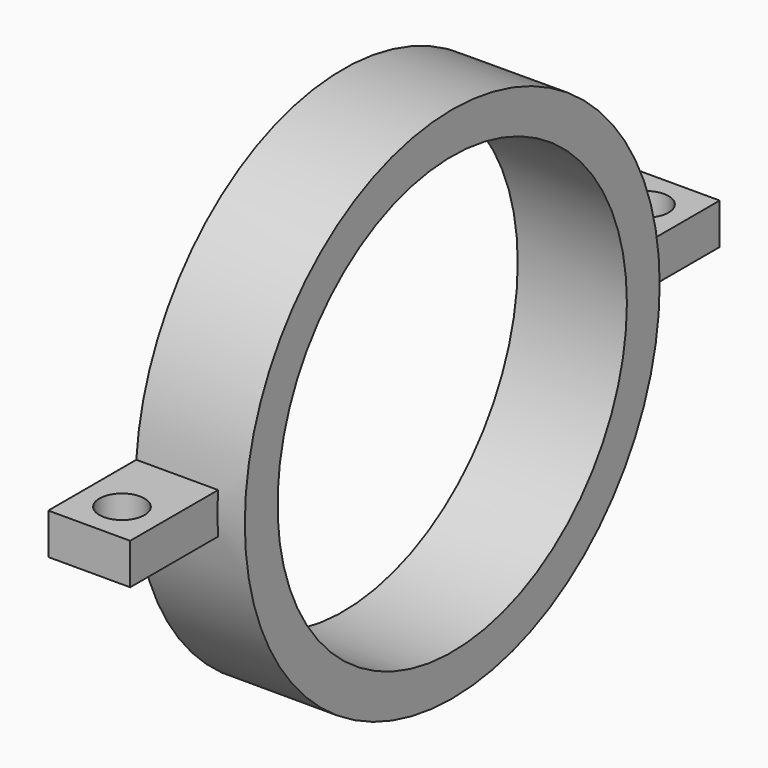
from build123d import *

# Parameters (mm, degrees)
F0_R     = 19
F0_R_2   = 16
F1_DEPTH = 4
F2_W     = 6
F2_H     = 3
F3_DEPTH = 27
F5_DEPTH = 4
F6_D     = 3.3
F6_DEPTH = 7
F6_TIP   = 0.9914200214


with BuildPart() as f1:
    # F0 (on Right) → F1 (new body, symmetric)
    with BuildSketch(Plane.YZ):
        Circle(F0_R)
        Circle(F0_R_2, mode=Mode.SUBTRACT)
    extrude(amount=F1_DEPTH, both=True)

    # F2 (on Front) → F3 (join, symmetric)
    with BuildSketch(Plane.XZ):
        with Locations((-1, 0)):
            Rectangle(F2_W, F2_H)
    extrude(amount=F3_DEPTH, both=True)

    # F0 (on Right) → F5 (cut, symmetric)
    with BuildSketch(Plane.YZ):
        Circle(F0_R_2)
    extrude(amount=F5_DEPTH, both=True, mode=Mode.SUBTRACT)

    # F6
    with Locations(Plane.XY.offset(1.5)):
        with Locations((-1, 24), (-1, -24)):
            Hole(F6_D / 2, depth=F6_DEPTH)
            with Locations((0, 0, -(F6_DEPTH + F6_TIP / 2))):  # 118° drill point
                Cone(0, F6_D / 2, F6_TIP, mode=Mode.SUBTRACT)


solid = f1.part
